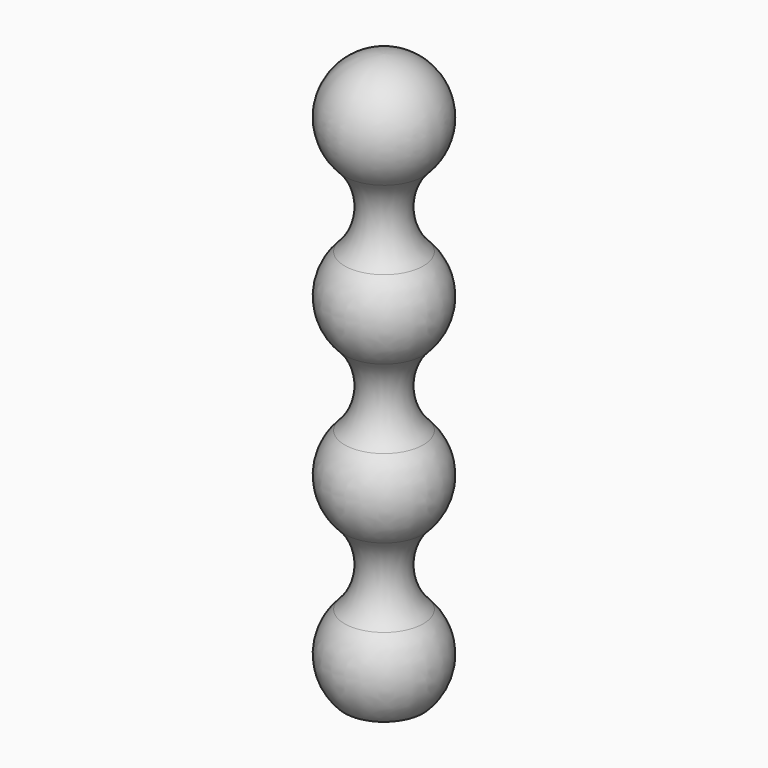
from build123d import *

# Parameters (mm, degrees)
LINEARPATTERN_COUNT = 3
LINEARPATTERN_PITCH = 20


with BuildPart() as part:
    # Sketch → Revolution (revolve)
    with BuildSketch(Plane.XZ):
        with BuildLine():
            ThreePointArc((5, -5), (7.071068, 0), (5, 5))
            ThreePointArc((5.000023, 15), (2.928944, 10.000005), (5, 5))
            Line((0, 15), (5.000023, 15))
            Line((0, -5), (0, 15))
            Line((5, -5), (0, -5))
        make_face()
    revolution = revolve(axis=Axis((0, 0, 0), (0, 0, 1)))

    # LinearPattern: Revolution ×3
    with Locations(*[(0, 0, i * LINEARPATTERN_PITCH) for i in range(1, LINEARPATTERN_COUNT)]):
        add(revolution)

    # Sketch002 → Revolution001 (revolve)
    with BuildSketch(Plane.XZ):
        with BuildLine():
            ThreePointArc((5.000023, 55), (6.532901, 62.706053), (4.3e-05, 67.071227))
            Line((4.3e-05, 67.071227), (4.3e-05, 55))
            Line((4.3e-05, 55), (5.000023, 55))
        make_face()
    revolve(axis=Axis((0, 0, 0), (0, 0, 1)))


solid = part.part
